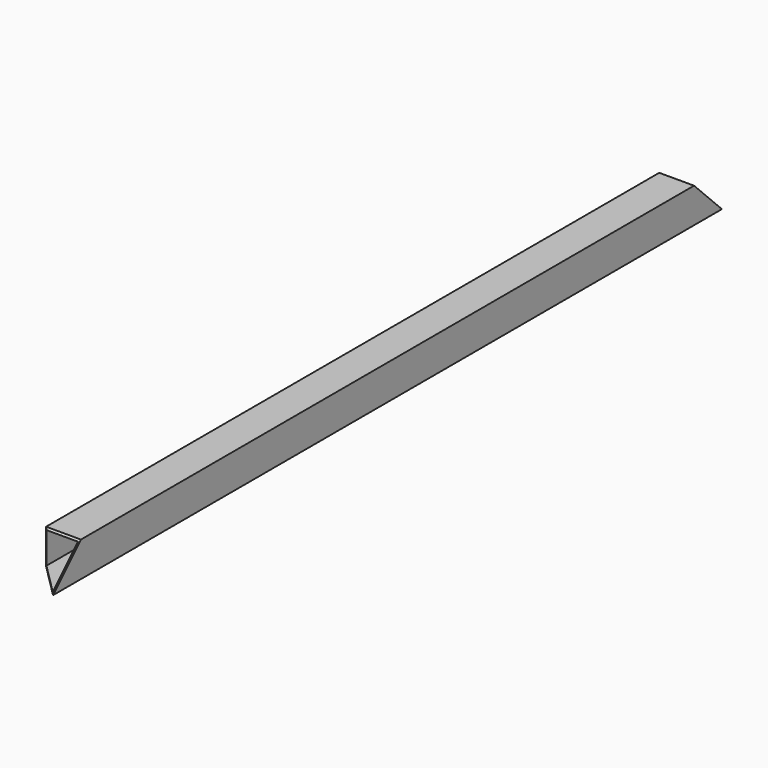
from build123d import *

# Parameters (mm, degrees)
F0_W     = 25.4
F0_H     = 25.4
F0_W_2   = 22.9108
F0_H_2   = 22.9108
F1_DEPTH = 609.6
F3_DEPTH = 25.401
F5_DEPTH = 25.401


with BuildPart() as f1:
    # F0 (on Front) → F1 (new body)
    with BuildSketch(Plane.XZ):
        Rectangle(F0_W, F0_H)
        Rectangle(F0_W_2, F0_H_2, mode=Mode.SUBTRACT)
    extrude(amount=F1_DEPTH)

    # F2 (on face) → F3 (cut, through all)
    with BuildSketch(Plane.XY.offset(12.7)):
        Polygon((-12.7, -25.4), (12.7, 0), (-12.7, 0), align=None)
        Polygon((-12.7, -609.6), (12.7, -609.6), (-12.7, -584.2), align=None)
    extrude(amount=-F3_DEPTH, mode=Mode.SUBTRACT)

    # F4 (on face) → F5 (cut, through all)
    with BuildSketch(Plane.YZ.offset(12.7)):
        Polygon((-609.6, 12.7), (-609.6, -12.7), (-584.2, 12.7), align=None)
        Polygon((-25.4, 12.7), (0, -12.7), (0, 12.7), align=None)
    extrude(amount=-F5_DEPTH, mode=Mode.SUBTRACT)


solid = f1.part
